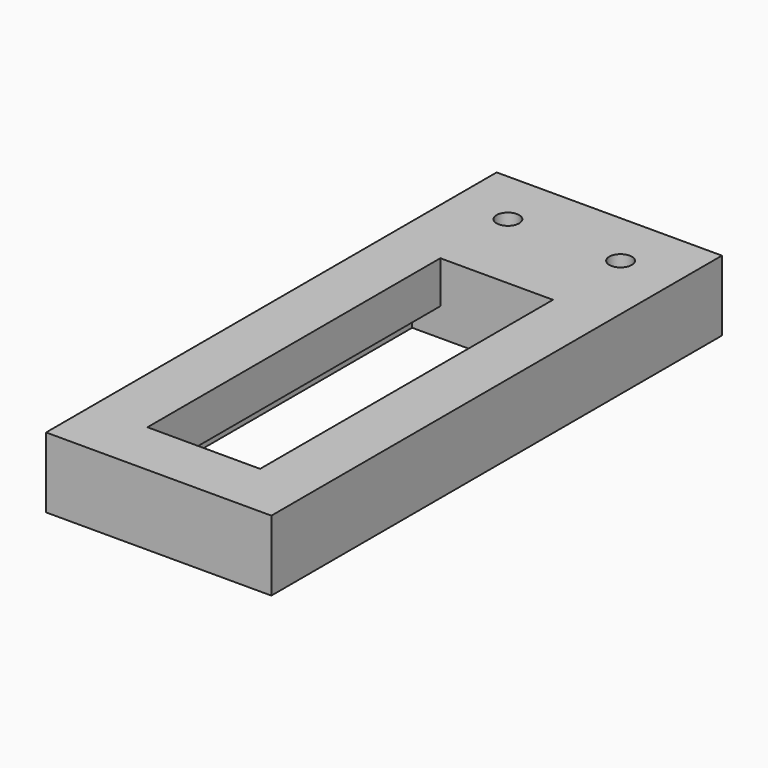
from build123d import *

# Parameters (mm, degrees)
F0_W     = 50.8
F0_H     = 127
F0_W_2   = 25.4
F0_H_2   = 82.55
F1_DEPTH = 15.875
F2_W     = 6.35
F2_H     = 82.55
F3_DEPTH = 6.35
F4_R     = 2.54
F5_DEPTH = 15.876
F4_R_2   = 4.0005
F6_DEPTH = 6.35


with BuildPart() as f1:
    # F0 (on Top) → F1 (new body)
    with BuildSketch(Plane.XY):
        with Locations((25.4, 63.5)):
            Rectangle(F0_W, F0_H)
        with Locations((25.4, 53.975)):
            Rectangle(F0_W_2, F0_H_2, mode=Mode.SUBTRACT)
    extrude(amount=F1_DEPTH)

    # F2 (on face) → F3 (cut)
    with BuildSketch(Plane(origin=(0, 0, 0), x_dir=(1, 0, 0), z_dir=(0, 0, -1))):
        with Locations((41.275, -53.975)):
            Rectangle(F2_W, F2_H)
        with Locations((9.525, -53.975)):
            Rectangle(F2_W, F2_H)
    extrude(amount=-F3_DEPTH, mode=Mode.SUBTRACT)

    # F4 (on face) → F5 (cut, through all)
    with BuildSketch(Plane(origin=(0, 0, 0), x_dir=(1, 0, 0), z_dir=(0, 0, -1))):
        with Locations((38.1, -114.3)):
            Circle(F4_R)
        with Locations((12.7, -114.3)):
            Circle(F4_R)
    extrude(amount=-F5_DEPTH, mode=Mode.SUBTRACT)

    # F4 (on face) → F6 (cut)
    with BuildSketch(Plane(origin=(0, 0, 0), x_dir=(1, 0, 0), z_dir=(0, 0, -1))):
        with Locations((38.1, -114.3)):
            Circle(F4_R_2)
        with Locations((38.1, -114.3)):
            Circle(F4_R, mode=Mode.SUBTRACT)
        with Locations((12.7, -114.3)):
            Circle(F4_R_2)
        with Locations((12.7, -114.3)):
            Circle(F4_R, mode=Mode.SUBTRACT)
    extrude(amount=-F6_DEPTH, mode=Mode.SUBTRACT)


solid = f1.part
